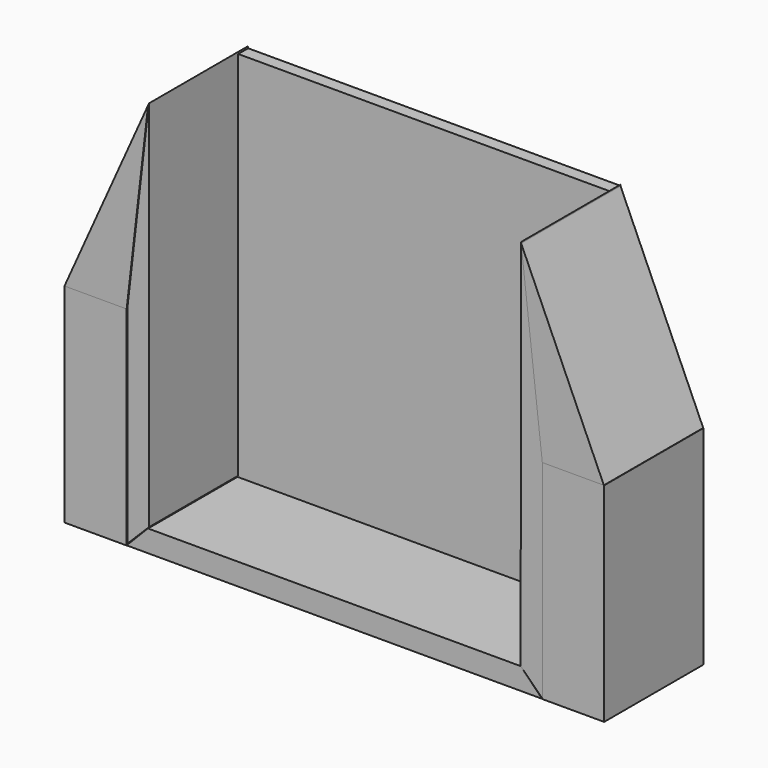
from build123d import *

# Parameters (mm, degrees)
F6_DEPTH = 25.4
F1_W     = 12.6999916806
F1_H     = 42.59326994
F1_W_2   = 12.7
F0_W     = 76.2
F0_H     = 76.2
F7_DEPTH = 2.54


with BuildPart() as f6:
    # F5 (on Front) → F6 (new body)
    with BuildSketch(Plane.XZ):
        Polygon((-38.0889810622, 38.1251983345), (-55.2002452314, 0), (-42.4809642136, 0), align=None)
    extrude(amount=F6_DEPTH)


with BuildPart() as f6b:
    # F5 (on Front) → F6, piece 2 (new body)
    with BuildSketch(Plane.XZ):
        Polygon((42.5219684839, 0), (55.1252737641, 0), (38.1808280945, 38.1251983345), align=None)
    extrude(amount=F6_DEPTH)


with BuildPart() as f6c:
    # F3 (on Front) → F6, piece 3 (new body)
    with BuildSketch(Plane.XZ):
        Polygon((-37.9513688385, 38.4902358055), (-42.3614494503, 0), (-42.3614494503, -42.2334186733), (-37.9513688385, -37.8233380616), align=None)
    extrude(amount=F6_DEPTH)


with BuildPart() as f6d:
    # F1 (on Front) → F6, piece 4 (new body)
    with BuildSketch(Plane.XZ):
        with Locations((-48.8357709259, -21.29663497)):
            Rectangle(F1_W, F1_H)
    extrude(amount=F6_DEPTH)


with BuildPart() as f6e:
    # F1 (on Front) → F6, piece 5 (new body)
    with BuildSketch(Plane.XZ):
        with Locations((48.8387201501, -21.29663497)):
            Rectangle(F1_W_2, F1_H)
    extrude(amount=F6_DEPTH)


with BuildPart() as f6f:
    # F2 (on face) → F6, piece 6 (new body)
    with BuildSketch(Plane.XZ):
        Polygon((-38.1, -38.0636436107), (-42.4922555685, -42.5622574985), (42.4859188497, -42.5622574985), (38.1004102528, -38.078378886), (38.1, -38.078378801), (38.1, -38.1), (-38.1, -38.1), align=None)
    extrude(amount=F6_DEPTH)


with BuildPart() as f6g:
    # F4 (on Front) → F6, piece 7 (new body)
    with BuildSketch(Plane.XZ):
        Polygon((42.5361469388, 0), (38.1816551089, 38.2997393608), (38.1046272814, -38.0692631006), (42.5361469388, -42.4716100097), align=None)
    extrude(amount=F6_DEPTH)


with BuildPart() as f7:
    # F0 (on Front) → F7 (new body)
    with BuildSketch(Plane.XZ):
        Rectangle(F0_W, F0_H)
    extrude(amount=F7_DEPTH)


solid = Compound([f6.part, f6b.part, f6c.part, f6d.part, f6e.part, f6f.part, f6g.part, f7.part])
